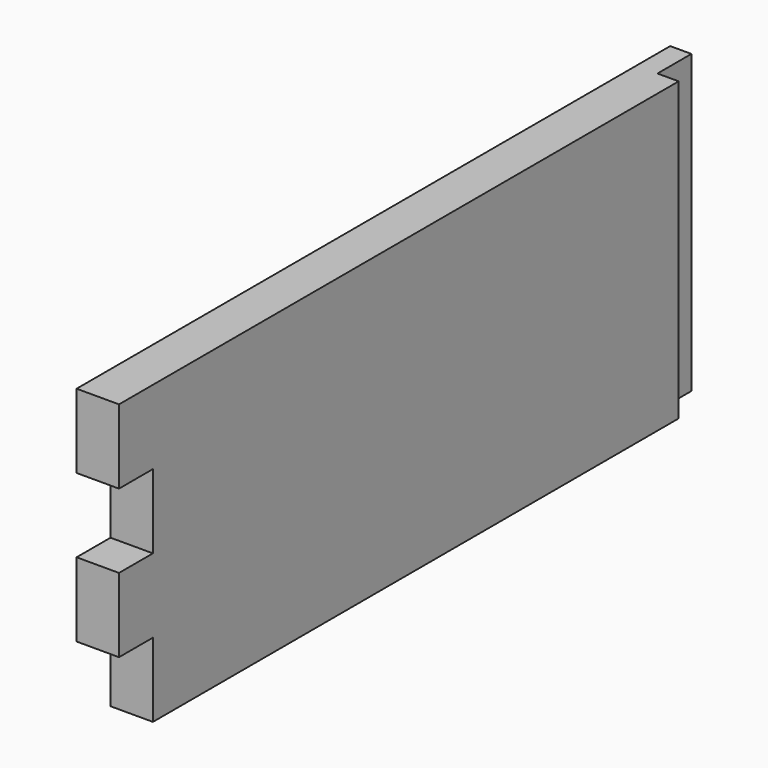
from build123d import *

# Parameters (mm, degrees)
F0_W     = 20
F0_H     = 35
F1_DEPTH = 20
F2_W     = 10
F2_H     = 140
F3_DEPTH = 20


with BuildPart() as f1:
    # F0 (on Right) → F1 (new body)
    with BuildSketch(Plane.YZ):
        with Locations((-197.80245, 70.041955)):
            Rectangle(F0_W, F0_H)
        Polygon((142.19755, 87.541955), (-187.80245, 87.541955), (-187.80245, 52.541955), (-187.80245, 17.541955), (-187.80245, -17.458045), (-187.80245, -52.458045), (142.19755, -52.458045), align=None)
        with Locations((-197.80245, 0.041955)):
            Rectangle(F0_W, F0_H)
    extrude(amount=F1_DEPTH)

    # F2 (on face) → F3 (cut)
    with BuildSketch(Plane(origin=(0, 142.19755, 0), x_dir=(-1, 0, 0), z_dir=(0, 1, 0))):
        with Locations((-15, 17.541955)):
            Rectangle(F2_W, F2_H)
    extrude(amount=-F3_DEPTH, mode=Mode.SUBTRACT)


solid = f1.part
